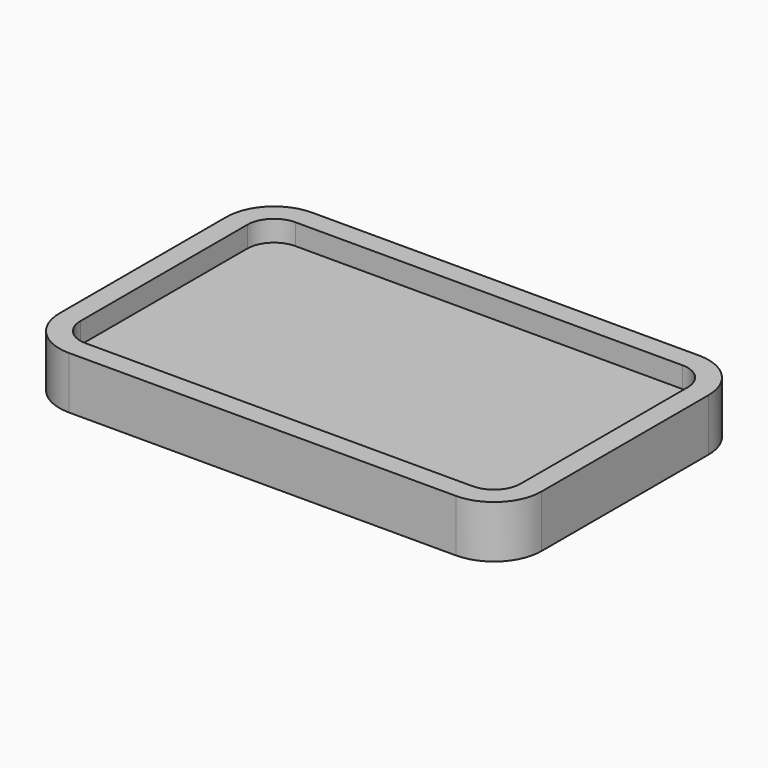
from build123d import *

# Parameters (mm, degrees)
F2_DEPTH = 3
F3_DEPTH = 5


with BuildPart() as f2:
    # F0 (on Top) → F2 (new body)
    with BuildSketch(Plane.XY):
        with BuildLine():
            ThreePointArc((21, 9.96), (20.256051, 11.756051), (18.46, 12.5))
            Line((18.46, 12.5), (-18.46, 12.5))
            ThreePointArc((-18.46, 12.5), (-20.256051, 11.756051), (-21, 9.96))
            Line((-21, 9.96), (-21, -9.96))
            ThreePointArc((-21, -9.96), (-20.256051, -11.756051), (-18.46, -12.5))
            Line((-18.46, -12.5), (18.46, -12.5))
            ThreePointArc((18.46, -12.5), (20.256051, -11.756051), (21, -9.96))
            Line((21, -9.96), (21, 9.96))
        make_face()
    extrude(amount=F2_DEPTH)

    # F1 (on face) → F3 (join)
    with BuildSketch(Plane.XY):
        with BuildLine():
            ThreePointArc((23, 9.96), (21.670265, 13.170265), (18.46, 14.5))
            Line((18.46, 14.5), (-18.46, 14.5))
            ThreePointArc((-18.46, 14.5), (-21.670265, 13.170265), (-23, 9.96))
            Line((-23, 9.96), (-23, -9.96))
            ThreePointArc((-23, -9.96), (-21.670265, -13.170265), (-18.46, -14.5))
            Line((-18.46, -14.5), (18.46, -14.5))
            ThreePointArc((18.46, -14.5), (21.670265, -13.170265), (23, -9.96))
            Line((23, -9.96), (23, 9.96))
        make_face()
        with BuildLine():
            ThreePointArc((18.46, 12.5), (20.256051, 11.756051), (21, 9.96))
            Line((21, 9.96), (21, -9.96))
            ThreePointArc((21, -9.96), (20.256051, -11.756051), (18.46, -12.5))
            Line((18.46, -12.5), (-18.46, -12.5))
            ThreePointArc((-18.46, -12.5), (-20.256051, -11.756051), (-21, -9.96))
            Line((-21, -9.96), (-21, 9.96))
            ThreePointArc((-21, 9.96), (-20.256051, 11.756051), (-18.46, 12.5))
            Line((-18.46, 12.5), (18.46, 12.5))
        make_face(mode=Mode.SUBTRACT)
    extrude(amount=F3_DEPTH)


solid = f2.part
